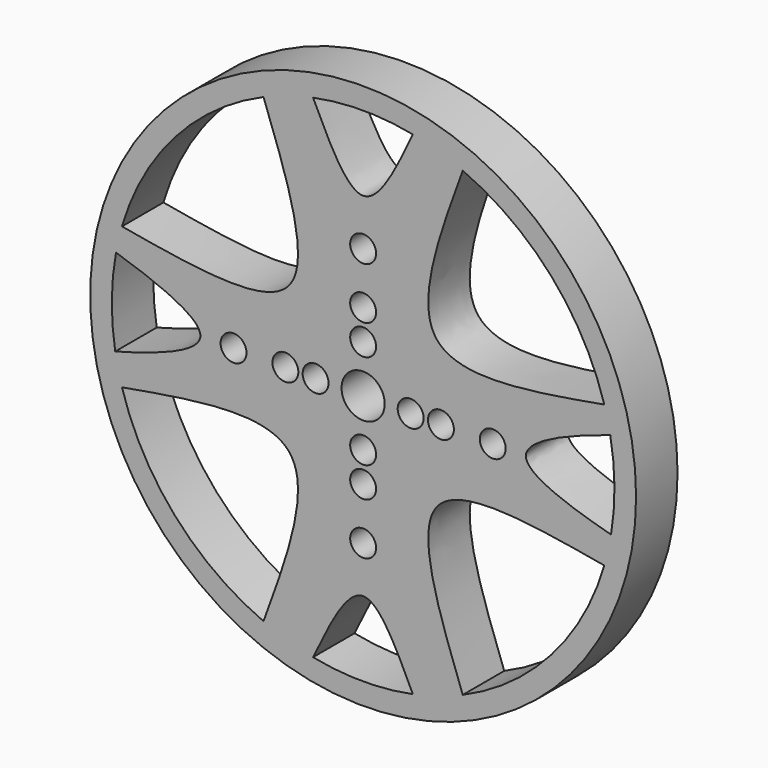
from build123d import *

# Parameters (mm, degrees)
F0_R     = 31.59
F0_R_2   = 1.5
F0_R_3   = 2.5
F1_DEPTH = 6


with BuildPart() as f1:
    # F0 (on Front) → F1 (new body)
    with BuildSketch(Plane.XZ):
        Circle(F0_R)
        with BuildLine():
            ThreePointArc((5.7548407183, -28.5150821199), (-0.022576758, -29.0899912391), (-5.7990949004, -28.5061151042))
            add(Edge.make_bspline(
                [(-5.7990949004, -28.5061151042), (-3.8643270806, -24.4627677728), (0.007951806, -16.3346928963), (3.8413144045, -24.4710048156), (5.7548407183, -28.5150821199)],
                knots=[0, 0, 0, 0, 0.5002306451, 1, 1, 1, 1], degree=3))
        make_face(mode=Mode.SUBTRACT)
        with BuildLine():
            add(Edge.make_bspline(
                [(-11.5287328291, -26.7079841874), (-8.7534935922, -19.1514781576), (-3.1149871272, -3.8323867545), (-19.597387192, -6.7376991425), (-27.9114144594, -8.1964042651)],
                knots=[0, 0, 0, 0, 0.4944321997, 1, 1, 1, 1], degree=3))
            ThreePointArc((-11.5287328291, -26.7079841874), (-21.7841904219, -19.2789301483), (-27.9114144594, -8.1964042651))
        make_face(mode=Mode.SUBTRACT)
        with Locations((0, -15)):
            Circle(F0_R_2, mode=Mode.SUBTRACT)
        with Locations((0, -9)):
            Circle(F0_R_2, mode=Mode.SUBTRACT)
        with BuildLine():
            ThreePointArc((27.9114144594, -8.1964042651), (21.7841904219, -19.2789301483), (11.5287328291, -26.7079841874))
            add(Edge.make_bspline(
                [(11.5287328291, -26.7079841874), (8.7534935922, -19.1514781576), (3.1149871272, -3.8323867545), (19.597387192, -6.7376991425), (27.9114144594, -8.1964042651)],
                knots=[0, 0, 0, 0, 0.4944321997, 1, 1, 1, 1], degree=3))
        make_face(mode=Mode.SUBTRACT)
        with Locations((0, -5.5)):
            Circle(F0_R_2, mode=Mode.SUBTRACT)
        with BuildLine():
            ThreePointArc((-28.6914853437, -4.7986215489), (-29.0888528252, 0.2583434076), (-28.6017314519, 5.3074530573))
            add(Edge.make_bspline(
                [(-28.6017314519, 5.3074530573), (-24.4475826621, 4.0112175047), (-13.2248280378, -0.1559511272), (-24.4475826621, -3.6461949348), (-28.6914853437, -4.7986215489)],
                knots=[0, 0, 0, 0, 0.5017345436, 1, 1, 1, 1], degree=3))
        make_face(mode=Mode.SUBTRACT)
        with Locations((-15, 0)):
            Circle(F0_R_2, mode=Mode.SUBTRACT)
        with Locations((-9, 0)):
            Circle(F0_R_2, mode=Mode.SUBTRACT)
        with Locations((-5.5, 0)):
            Circle(F0_R_2, mode=Mode.SUBTRACT)
        with BuildLine():
            ThreePointArc((-27.9114144594, 8.1964042651), (-21.7841904219, 19.2789301483), (-11.5287328291, 26.7079841874))
            add(Edge.make_bspline(
                [(-11.5287328291, 26.7079841874), (-8.7534935922, 19.1514781576), (-3.1149871272, 3.8323867545), (-19.597387192, 6.7376991425), (-27.9114144594, 8.1964042651)],
                knots=[0, 0, 0, 0, 0.4944321997, 1, 1, 1, 1], degree=3))
        make_face(mode=Mode.SUBTRACT)
        with BuildLine():
            add(Edge.make_bspline(
                [(-5.7990949004, 28.5061151042), (-3.8643270806, 24.4627677728), (0.007951806, 16.3346928963), (3.8413144045, 24.4710048156), (5.7548407183, 28.5150821199)],
                knots=[0, 0, 0, 0, 0.5002306451, 1, 1, 1, 1], degree=3))
            ThreePointArc((-5.7990949004, 28.5061151042), (-0.022576758, 29.0899912391), (5.7548407183, 28.5150821199))
        make_face(mode=Mode.SUBTRACT)
        Circle(F0_R_3, mode=Mode.SUBTRACT)
        with Locations((5.5, 0)):
            Circle(F0_R_2, mode=Mode.SUBTRACT)
        with Locations((0, 5.5)):
            Circle(F0_R_2, mode=Mode.SUBTRACT)
        with Locations((9, 0)):
            Circle(F0_R_2, mode=Mode.SUBTRACT)
        with Locations((15, 0)):
            Circle(F0_R_2, mode=Mode.SUBTRACT)
        with Locations((0, 9)):
            Circle(F0_R_2, mode=Mode.SUBTRACT)
        with Locations((0, 15)):
            Circle(F0_R_2, mode=Mode.SUBTRACT)
        with BuildLine():
            add(Edge.make_bspline(
                [(11.5287328291, 26.7079841874), (8.7534935922, 19.1514781576), (3.1149871272, 3.8323867545), (19.597387192, 6.7376991425), (27.9114144594, 8.1964042651)],
                knots=[0, 0, 0, 0, 0.4944321997, 1, 1, 1, 1], degree=3))
            ThreePointArc((11.5287328291, 26.7079841874), (21.7841904219, 19.2789301483), (27.9114144594, 8.1964042651))
        make_face(mode=Mode.SUBTRACT)
        with BuildLine():
            add(Edge.make_bspline(
                [(28.6017314519, 5.3074530573), (24.4475826621, 4.0112175047), (13.2248280378, -0.1559511272), (24.4475826621, -3.6461949348), (28.6914853437, -4.7986215489)],
                knots=[0, 0, 0, 0, 0.5017345436, 1, 1, 1, 1], degree=3))
            ThreePointArc((28.6017314519, 5.3074530573), (29.0888528252, 0.2583434076), (28.6914853437, -4.7986215489))
        make_face(mode=Mode.SUBTRACT)
    extrude(amount=F1_DEPTH)


solid = f1.part
